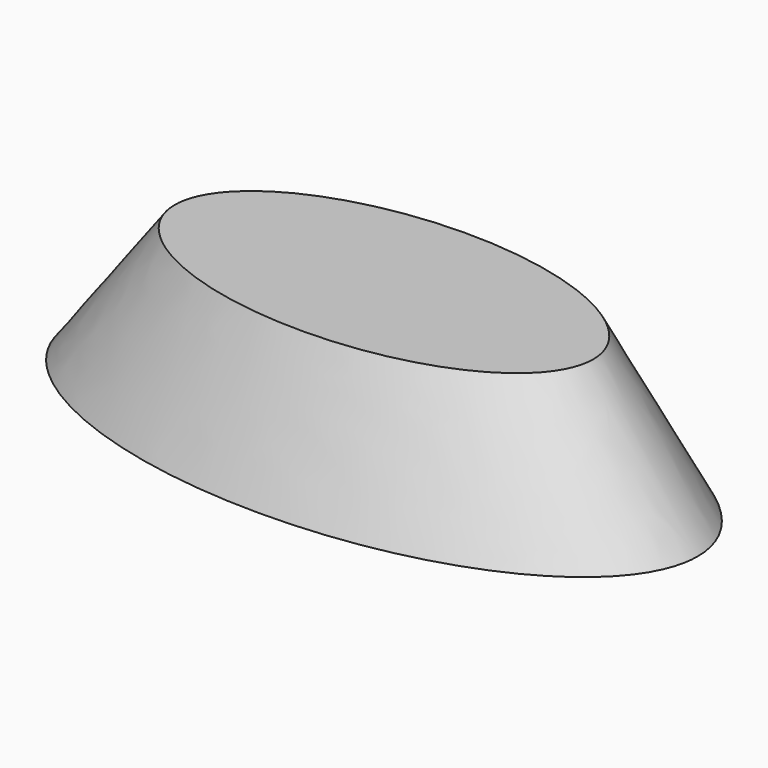
from build123d import *


with BuildPart() as f3:
    # F0 (on Top) → F3 section 0
    with BuildSketch(Plane.XY):
        with BuildLine():
            add(Edge.make_bspline(
                [(45, 0), (45, 38.971143), (-22.5, 19.485572), (-90, 0), (-22.5, -19.485572), (45, -38.971143), (45, 0)],
                knots=[0, 0, 0, 2.094395, 2.094395, 4.18879, 4.18879, 6.283185, 6.283185, 6.283185], degree=2, weights=[1, 0.5, 1, 0.5, 1, 0.5, 1]))
        make_face()
    # F2 (on offset) → F3 section 1
    with BuildSketch(Plane.XY.offset(20)):
        with BuildLine():
            add(Edge.make_bspline(
                [(30, 0), (30, 25.980762), (-15, 12.990381), (-60, 0), (-15, -12.990381), (30, -25.980762), (30, 0)],
                knots=[0, 0, 0, 2.094395, 2.094395, 4.18879, 4.18879, 6.283185, 6.283185, 6.283185], degree=2, weights=[1, 0.5, 1, 0.5, 1, 0.5, 1]))
        make_face()
    loft()


solid = f3.part
